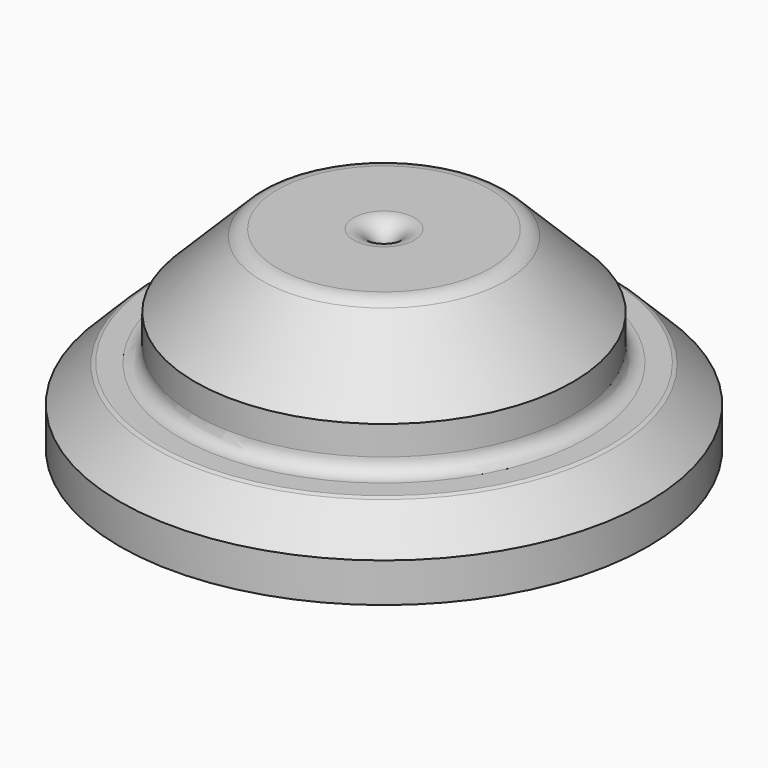
from build123d import *

# Parameters (mm, degrees)
CHAMFER_SIZE = 1
FILLET_R     = 10


with BuildPart() as part:
    # Sketch → Revolution (revolve)
    with BuildSketch(Plane.XZ):
        with BuildLine():
            Line((4.136281, 100), (53.643467, 100))
            Line((53.643467, 100), (87.759073, 65.884394))
            Line((87.759073, 65.884394), (87.759073, 52.342683))
            ThreePointArc((87.759073, 52.342683), (89.809326, 47.392936), (94.759073, 45.342683))
            Line((94.759073, 45.342683), (105.666697, 45.342683))
            Line((105.666697, 45.342683), (122.742529, 28.266851))
            Line((122.742529, 28.266851), (122.742529, 10))
            Line((122.742529, 10), (12.136281, 10))
            ThreePointArc((4.136281, 18), (6.479427, 12.343146), (12.136281, 10))
            Line((4.136281, 18), (4.136281, 100))
        make_face()
    revolve(axis=Axis((0, 0, 0), (0, 0, 1)))

    # Chamfer
    chamfer_edges = [part.edges().sort_by_distance(p)[0] for p in [
        (-94.759073, 0, 45.342683),
        (-105.666697, 0, 45.342683),
    ]]
    chamfer(chamfer_edges, length=CHAMFER_SIZE)

    # Fillet
    fillet_edges = [part.edges().sort_by_distance(p)[0] for p in [
        (-4.136281, 0, 100),
        (-53.643467, 0, 100),
    ]]
    fillet(fillet_edges, radius=FILLET_R)


solid = part.part
